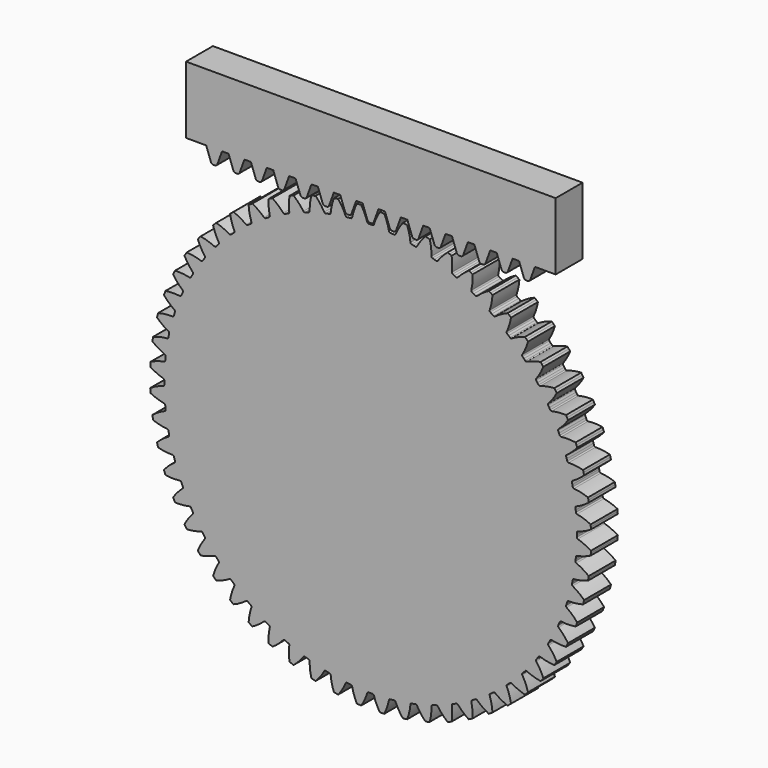
from build123d import *

# Parameters (mm, degrees)
F1_DEPTH = 5
F3_DEPTH = 5


with BuildPart() as f1:
    # F0 (on Front) → F1 (new body)
    with BuildSketch(Plane.XZ):
        with BuildLine():
            ThreePointArc((-0.297507, 30.688558), (-0.417595, 30.727177), (-0.490682, 30.829993))
            ThreePointArc((-0.490682, 30.829993), (-0.875034, 31.835854), (-1.391948, 32.78046))
            ThreePointArc((-1.391948, 32.78046), (-1.554564, 32.773151), (-1.717143, 32.765035))
            ThreePointArc((-1.717143, 32.765035), (-1.879679, 32.756113), (-2.042168, 32.746384))
            ThreePointArc((-2.042168, 32.746384), (-2.457513, 31.752919), (-2.734618, 30.712393))
            ThreePointArc((-2.734618, 30.712393), (-2.796557, 30.602501), (-2.911951, 30.551541))
            ThreePointArc((-2.911951, 30.551541), (-3.060001, 30.537068), (-3.207979, 30.521877))
            ThreePointArc((-3.207979, 30.521877), (-3.355881, 30.505969), (-3.503705, 30.489345))
            ThreePointArc((-3.503705, 30.489345), (-3.627172, 30.5152), (-3.710606, 30.609813))
            ThreePointArc((-3.710606, 30.609813), (-4.197993, 31.569988), (-4.810814, 32.455387))
            ThreePointArc((-4.810814, 32.455387), (-4.971776, 32.43112), (-5.132615, 32.406054))
            ThreePointArc((-5.132615, 32.406054), (-5.293328, 32.380191), (-5.45391, 32.353531))
            ThreePointArc((-5.45391, 32.353531), (-5.763134, 31.322094), (-5.929957, 30.258302))
            ThreePointArc((-5.929957, 30.258302), (-5.98007, 30.142538), (-6.089504, 30.079795))
            ThreePointArc((-6.089504, 30.079795), (-6.23523, 30.049925), (-6.38081, 30.01935))
            ThreePointArc((-6.38081, 30.01935), (-6.526239, 29.988069), (-6.671516, 29.956084))
            ThreePointArc((-6.671516, 29.956084), (-6.797009, 29.968892), (-6.889875, 30.054265))
            ThreePointArc((-6.889875, 30.054265), (-7.474958, 30.958234), (-8.176971, 31.774726))
            ThreePointArc((-8.176971, 31.774726), (-8.334515, 31.733767), (-8.491853, 31.692026))
            ThreePointArc((-8.491853, 31.692026), (-8.648982, 31.649506), (-8.805898, 31.606206))
            ThreePointArc((-8.805898, 31.606206), (-9.005613, 30.548096), (-9.060326, 29.472695))
            ThreePointArc((-9.060326, 29.472695), (-9.098063, 29.352326), (-9.20034, 29.278488))
            ThreePointArc((-9.20034, 29.278488), (-9.342146, 29.23355), (-9.483732, 29.187924))
            ThreePointArc((-9.483732, 29.187924), (-9.625095, 29.141614), (-9.766232, 29.094618))
            ThreePointArc((-9.766232, 29.094618), (-9.892377, 29.094238), (-9.993658, 29.169437))
            ThreePointArc((-9.993658, 29.169437), (-10.670026, 30.007296), (-11.45354, 30.745935))
            ThreePointArc((-11.45354, 30.745935), (-11.605939, 30.688732), (-11.758052, 30.630774))
            ThreePointArc((-11.758052, 30.630774), (-11.909876, 30.572062), (-12.061407, 30.512597))
            ThreePointArc((-12.061407, 30.512597), (-12.149425, 29.439408), (-12.091428, 28.364178))
            ThreePointArc((-12.091428, 28.364178), (-12.116377, 28.240525), (-12.210375, 28.1564))
            ThreePointArc((-12.210375, 28.1564), (-12.346706, 28.096885), (-12.482748, 28.03671))
            ThreePointArc((-12.482748, 28.03671), (-12.618496, 27.975877), (-12.753947, 27.914386))
            ThreePointArc((-12.753947, 27.914386), (-12.879361, 27.900822), (-12.987948, 27.965022))
            ThreePointArc((-12.987948, 27.965022), (-13.748191, 28.727591), (-14.604622, 29.380284))
            ThreePointArc((-14.604622, 29.380284), (-14.750207, 29.307465), (-14.895428, 29.233924))
            ThreePointArc((-14.895428, 29.233924), (-15.040283, 29.159664), (-15.184768, 29.084685))
            ThreePointArc((-15.184768, 29.084685), (-15.160126, 28.008175), (-14.990054, 26.944898))
            ThreePointArc((-14.990054, 26.944898), (-15.001941, 26.819314), (-15.08663, 26.725824))
            ThreePointArc((-15.08663, 26.725824), (-15.215994, 26.652385), (-15.345, 26.57832))
            ThreePointArc((-15.345, 26.57832), (-15.473646, 26.50363), (-15.601928, 26.428317))
            ThreePointArc((-15.601928, 26.428317), (-15.725237, 26.401718), (-15.839939, 26.454216))
            ThreePointArc((-15.839939, 26.454216), (-16.675728, 27.133141), (-17.595692, 27.692737))
            ThreePointArc((-17.595692, 27.692737), (-17.732868, 27.605099), (-17.869607, 27.516781))
            ThreePointArc((-17.869607, 27.516781), (-18.005906, 27.427786), (-18.141762, 27.338116))
            ThreePointArc((-18.141762, 27.338116), (-18.004728, 26.270078), (-17.724445, 25.230404))
            ThreePointArc((-17.724445, 25.230404), (-17.72314, 25.104265), (-17.797594, 25.002435))
            ThreePointArc((-17.797594, 25.002435), (-17.918572, 24.915876), (-18.039129, 24.828732))
            ThreePointArc((-18.039129, 24.828732), (-18.159263, 24.741004), (-18.27897, 24.652695))
            ThreePointArc((-18.27897, 24.652695), (-18.398823, 24.613352), (-18.518385, 24.653573))
            ThreePointArc((-18.518385, 24.653573), (-19.420562, 25.241415), (-20.393981, 25.701783))
            ThreePointArc((-20.393981, 25.701783), (-20.521244, 25.600286), (-20.648002, 25.498159))
            ThreePointArc((-20.648002, 25.498159), (-20.774252, 25.395404), (-20.89999, 25.292024))
            ThreePointArc((-20.89999, 25.292024), (-20.652067, 24.244162), (-20.264644, 23.23948))
            ThreePointArc((-20.264644, 23.23948), (-20.250161, 23.114169), (-20.313563, 23.005114))
            ThreePointArc((-20.313563, 23.005114), (-20.42483, 22.906383), (-20.535618, 22.807115))
            ThreePointArc((-20.535618, 22.807115), (-20.645924, 22.70731), (-20.755744, 22.606972))
            ThreePointArc((-20.755744, 22.606972), (-20.870829, 22.555317), (-20.993939, 22.582819))
            ThreePointArc((-20.993939, 22.582819), (-21.952621, 23.073138), (-22.968828, 23.429235))
            ThreePointArc((-22.968828, 23.429235), (-23.084785, 23.314991), (-23.200173, 23.200173))
            ThreePointArc((-23.200173, 23.200173), (-23.314991, 23.084785), (-23.429235, 22.968828))
            ThreePointArc((-23.429235, 22.968828), (-23.073138, 21.952621), (-22.582819, 20.993939))
            ThreePointArc((-22.582819, 20.993939), (-22.555317, 20.870829), (-22.606972, 20.755744))
            ThreePointArc((-22.606972, 20.755744), (-22.70731, 20.645924), (-22.807115, 20.535618))
            ThreePointArc((-22.807115, 20.535618), (-22.906383, 20.42483), (-23.005114, 20.313563))
            ThreePointArc((-23.005114, 20.313563), (-23.114169, 20.250161), (-23.23948, 20.264644))
            ThreePointArc((-23.23948, 20.264644), (-24.244162, 20.652067), (-25.292024, 20.89999))
            ThreePointArc((-25.292024, 20.89999), (-25.395404, 20.774252), (-25.498159, 20.648002))
            ThreePointArc((-25.498159, 20.648002), (-25.600286, 20.521244), (-25.701783, 20.393981))
            ThreePointArc((-25.701783, 20.393981), (-25.241415, 19.420562), (-24.653573, 18.518385))
            ThreePointArc((-24.653573, 18.518385), (-24.613352, 18.398823), (-24.652695, 18.27897))
            ThreePointArc((-24.652695, 18.27897), (-24.741004, 18.159263), (-24.828732, 18.039129))
            ThreePointArc((-24.828732, 18.039129), (-24.915876, 17.918572), (-25.002435, 17.797594))
            ThreePointArc((-25.002435, 17.797594), (-25.104265, 17.72314), (-25.230404, 17.724445))
            ThreePointArc((-25.230404, 17.724445), (-26.270078, 18.004728), (-27.338116, 18.141762))
            ThreePointArc((-27.338116, 18.141762), (-27.427786, 18.005906), (-27.516781, 17.869607))
            ThreePointArc((-27.516781, 17.869607), (-27.605099, 17.732868), (-27.692737, 17.595692))
            ThreePointArc((-27.692737, 17.595692), (-27.133141, 16.675728), (-26.454216, 15.839939))
            ThreePointArc((-26.454216, 15.839939), (-26.401718, 15.725237), (-26.428317, 15.601928))
            ThreePointArc((-26.428317, 15.601928), (-26.50363, 15.473646), (-26.57832, 15.345))
            ThreePointArc((-26.57832, 15.345), (-26.652385, 15.215994), (-26.725824, 15.08663))
            ThreePointArc((-26.725824, 15.08663), (-26.819314, 15.001941), (-26.944898, 14.990054))
            ThreePointArc((-26.944898, 14.990054), (-28.008175, 15.160126), (-29.084685, 15.184768))
            ThreePointArc((-29.084685, 15.184768), (-29.159664, 15.040283), (-29.233924, 14.895428))
            ThreePointArc((-29.233924, 14.895428), (-29.307465, 14.750207), (-29.380284, 14.604622))
            ThreePointArc((-29.380284, 14.604622), (-28.727591, 13.748191), (-27.965022, 12.987948))
            ThreePointArc((-27.965022, 12.987948), (-27.900822, 12.879361), (-27.914386, 12.753947))
            ThreePointArc((-27.914386, 12.753947), (-27.975877, 12.618496), (-28.03671, 12.482748))
            ThreePointArc((-28.03671, 12.482748), (-28.096885, 12.346706), (-28.1564, 12.210375))
            ThreePointArc((-28.1564, 12.210375), (-28.240525, 12.116377), (-28.364178, 12.091428))
            ThreePointArc((-28.364178, 12.091428), (-29.439408, 12.149425), (-30.512597, 12.061407))
            ThreePointArc((-30.512597, 12.061407), (-30.572062, 11.909876), (-30.630774, 11.758052))
            ThreePointArc((-30.630774, 11.758052), (-30.688732, 11.605939), (-30.745935, 11.45354))
            ThreePointArc((-30.745935, 11.45354), (-30.007296, 10.670026), (-29.169437, 9.993658))
            ThreePointArc((-29.169437, 9.993658), (-29.094238, 9.892377), (-29.094618, 9.766232))
            ThreePointArc((-29.094618, 9.766232), (-29.141614, 9.625095), (-29.187924, 9.483732))
            ThreePointArc((-29.187924, 9.483732), (-29.23355, 9.342146), (-29.278488, 9.20034))
            ThreePointArc((-29.278488, 9.20034), (-29.352326, 9.098063), (-29.472695, 9.060326))
            ThreePointArc((-29.472695, 9.060326), (-30.548096, 9.005613), (-31.606206, 8.805898))
            ThreePointArc((-31.606206, 8.805898), (-31.649506, 8.648982), (-31.692026, 8.491853))
            ThreePointArc((-31.692026, 8.491853), (-31.733767, 8.334515), (-31.774726, 8.176971))
            ThreePointArc((-31.774726, 8.176971), (-30.958234, 7.474958), (-30.054265, 6.889875))
            ThreePointArc((-30.054265, 6.889875), (-29.968892, 6.797009), (-29.956084, 6.671516))
            ThreePointArc((-29.956084, 6.671516), (-29.988069, 6.526239), (-30.01935, 6.38081))
            ThreePointArc((-30.01935, 6.38081), (-30.049925, 6.23523), (-30.079795, 6.089504))
            ThreePointArc((-30.079795, 6.089504), (-30.142538, 5.98007), (-30.258302, 5.929957))
            ThreePointArc((-30.258302, 5.929957), (-31.322094, 5.763134), (-32.353531, 5.45391))
            ThreePointArc((-32.353531, 5.45391), (-32.380191, 5.293328), (-32.406054, 5.132615))
            ThreePointArc((-32.406054, 5.132615), (-32.43112, 4.971776), (-32.455387, 4.810814))
            ThreePointArc((-32.455387, 4.810814), (-31.569988, 4.197993), (-30.609813, 3.710606))
            ThreePointArc((-30.609813, 3.710606), (-30.5152, 3.627172), (-30.489345, 3.503705))
            ThreePointArc((-30.489345, 3.503705), (-30.505969, 3.355881), (-30.521877, 3.207979))
            ThreePointArc((-30.521877, 3.207979), (-30.537068, 3.060001), (-30.551541, 2.911951))
            ThreePointArc((-30.551541, 2.911951), (-30.602501, 2.796557), (-30.712393, 2.734618))
            ThreePointArc((-30.712393, 2.734618), (-31.752919, 2.457513), (-32.746384, 2.042168))
            ThreePointArc((-32.746384, 2.042168), (-32.756113, 1.879679), (-32.765035, 1.717143))
            ThreePointArc((-32.765035, 1.717143), (-32.773151, 1.554564), (-32.78046, 1.391948))
            ThreePointArc((-32.78046, 1.391948), (-31.835854, 0.875034), (-30.829993, 0.490682))
            ThreePointArc((-30.829993, 0.490682), (-30.727177, 0.417595), (-30.688558, 0.297507))
            ThreePointArc((-30.688558, 0.297507), (-30.689639, 0.148755), (-30.69, 0))
            ThreePointArc((-30.69, 0), (-30.689639, -0.148755), (-30.688558, -0.297507))
            ThreePointArc((-30.688558, -0.297507), (-30.727177, -0.417595), (-30.829993, -0.490682))
            ThreePointArc((-30.829993, -0.490682), (-31.835854, -0.875034), (-32.78046, -1.391948))
            ThreePointArc((-32.78046, -1.391948), (-32.773151, -1.554564), (-32.765035, -1.717143))
            ThreePointArc((-32.765035, -1.717143), (-32.756113, -1.879679), (-32.746384, -2.042168))
            ThreePointArc((-32.746384, -2.042168), (-31.752919, -2.457513), (-30.712393, -2.734618))
            ThreePointArc((-30.712393, -2.734618), (-30.602501, -2.796557), (-30.551541, -2.911951))
            ThreePointArc((-30.551541, -2.911951), (-30.537068, -3.060001), (-30.521877, -3.207979))
            ThreePointArc((-30.521877, -3.207979), (-30.505969, -3.355881), (-30.489345, -3.503705))
            ThreePointArc((-30.489345, -3.503705), (-30.5152, -3.627172), (-30.609813, -3.710606))
            ThreePointArc((-30.609813, -3.710606), (-31.569988, -4.197993), (-32.455387, -4.810814))
            ThreePointArc((-32.455387, -4.810814), (-32.43112, -4.971776), (-32.406054, -5.132615))
            ThreePointArc((-32.406054, -5.132615), (-32.380191, -5.293328), (-32.353531, -5.45391))
            ThreePointArc((-32.353531, -5.45391), (-31.322094, -5.763134), (-30.258302, -5.929957))
            ThreePointArc((-30.258302, -5.929957), (-30.142538, -5.98007), (-30.079795, -6.089504))
            ThreePointArc((-30.079795, -6.089504), (-30.049925, -6.23523), (-30.01935, -6.38081))
            ThreePointArc((-30.01935, -6.38081), (-29.988069, -6.526239), (-29.956084, -6.671516))
            ThreePointArc((-29.956084, -6.671516), (-29.968892, -6.797009), (-30.054265, -6.889875))
            ThreePointArc((-30.054265, -6.889875), (-30.958234, -7.474958), (-31.774726, -8.176971))
            ThreePointArc((-31.774726, -8.176971), (-31.733767, -8.334515), (-31.692026, -8.491853))
            ThreePointArc((-31.692026, -8.491853), (-31.649506, -8.648982), (-31.606206, -8.805898))
            ThreePointArc((-31.606206, -8.805898), (-30.548096, -9.005613), (-29.472695, -9.060326))
            ThreePointArc((-29.472695, -9.060326), (-29.352326, -9.098063), (-29.278488, -9.20034))
            ThreePointArc((-29.278488, -9.20034), (-29.23355, -9.342146), (-29.187924, -9.483732))
            ThreePointArc((-29.187924, -9.483732), (-29.141614, -9.625095), (-29.094618, -9.766232))
            ThreePointArc((-29.094618, -9.766232), (-29.094238, -9.892377), (-29.169437, -9.993658))
            ThreePointArc((-29.169437, -9.993658), (-30.007296, -10.670026), (-30.745935, -11.45354))
            ThreePointArc((-30.745935, -11.45354), (-30.688732, -11.605939), (-30.630774, -11.758052))
            ThreePointArc((-30.630774, -11.758052), (-30.572062, -11.909876), (-30.512597, -12.061407))
            ThreePointArc((-30.512597, -12.061407), (-29.439408, -12.149425), (-28.364178, -12.091428))
            ThreePointArc((-28.364178, -12.091428), (-28.240525, -12.116377), (-28.1564, -12.210375))
            ThreePointArc((-28.1564, -12.210375), (-28.096885, -12.346706), (-28.03671, -12.482748))
            ThreePointArc((-28.03671, -12.482748), (-27.975877, -12.618496), (-27.914386, -12.753947))
            ThreePointArc((-27.914386, -12.753947), (-27.900822, -12.879361), (-27.965022, -12.987948))
            ThreePointArc((-27.965022, -12.987948), (-28.727591, -13.748191), (-29.380284, -14.604622))
            ThreePointArc((-29.380284, -14.604622), (-29.307465, -14.750207), (-29.233924, -14.895428))
            ThreePointArc((-29.233924, -14.895428), (-29.159664, -15.040283), (-29.084685, -15.184768))
            ThreePointArc((-29.084685, -15.184768), (-28.008175, -15.160126), (-26.944898, -14.990054))
            ThreePointArc((-26.944898, -14.990054), (-26.819314, -15.001941), (-26.725824, -15.08663))
            ThreePointArc((-26.725824, -15.08663), (-26.652385, -15.215994), (-26.57832, -15.345))
            ThreePointArc((-26.57832, -15.345), (-26.50363, -15.473646), (-26.428317, -15.601928))
            ThreePointArc((-26.428317, -15.601928), (-26.401718, -15.725237), (-26.454216, -15.839939))
            ThreePointArc((-26.454216, -15.839939), (-27.133141, -16.675728), (-27.692737, -17.595692))
            ThreePointArc((-27.692737, -17.595692), (-27.605099, -17.732868), (-27.516781, -17.869607))
            ThreePointArc((-27.516781, -17.869607), (-27.427786, -18.005906), (-27.338116, -18.141762))
            ThreePointArc((-27.338116, -18.141762), (-26.270078, -18.004728), (-25.230404, -17.724445))
            ThreePointArc((-25.230404, -17.724445), (-25.104265, -17.72314), (-25.002435, -17.797594))
            ThreePointArc((-25.002435, -17.797594), (-24.915876, -17.918572), (-24.828732, -18.039129))
            ThreePointArc((-24.828732, -18.039129), (-24.741004, -18.159263), (-24.652695, -18.27897))
            ThreePointArc((-24.652695, -18.27897), (-24.613352, -18.398823), (-24.653573, -18.518385))
            ThreePointArc((-24.653573, -18.518385), (-25.241415, -19.420562), (-25.701783, -20.393981))
            ThreePointArc((-25.701783, -20.393981), (-25.600286, -20.521244), (-25.498159, -20.648002))
            ThreePointArc((-25.498159, -20.648002), (-25.395404, -20.774252), (-25.292024, -20.89999))
            ThreePointArc((-25.292024, -20.89999), (-24.244162, -20.652067), (-23.23948, -20.264644))
            ThreePointArc((-23.23948, -20.264644), (-23.114169, -20.250161), (-23.005114, -20.313563))
            ThreePointArc((-23.005114, -20.313563), (-22.906383, -20.42483), (-22.807115, -20.535618))
            ThreePointArc((-22.807115, -20.535618), (-22.70731, -20.645924), (-22.606972, -20.755744))
            ThreePointArc((-22.606972, -20.755744), (-22.555317, -20.870829), (-22.582819, -20.993939))
            ThreePointArc((-22.582819, -20.993939), (-23.073138, -21.952621), (-23.429235, -22.968828))
            ThreePointArc((-23.429235, -22.968828), (-23.314991, -23.084785), (-23.200173, -23.200173))
            ThreePointArc((-23.200173, -23.200173), (-23.084785, -23.314991), (-22.968828, -23.429235))
            ThreePointArc((-22.968828, -23.429235), (-21.952621, -23.073138), (-20.993939, -22.582819))
            ThreePointArc((-20.993939, -22.582819), (-20.870829, -22.555317), (-20.755744, -22.606972))
            ThreePointArc((-20.755744, -22.606972), (-20.645924, -22.70731), (-20.535618, -22.807115))
            ThreePointArc((-20.535618, -22.807115), (-20.42483, -22.906383), (-20.313563, -23.005114))
            ThreePointArc((-20.313563, -23.005114), (-20.250161, -23.114169), (-20.264644, -23.23948))
            ThreePointArc((-20.264644, -23.23948), (-20.652067, -24.244162), (-20.89999, -25.292024))
            ThreePointArc((-20.89999, -25.292024), (-20.774252, -25.395404), (-20.648002, -25.498159))
            ThreePointArc((-20.648002, -25.498159), (-20.521244, -25.600286), (-20.393981, -25.701783))
            ThreePointArc((-20.393981, -25.701783), (-19.420562, -25.241415), (-18.518385, -24.653573))
            ThreePointArc((-18.518385, -24.653573), (-18.398823, -24.613352), (-18.27897, -24.652695))
            ThreePointArc((-18.27897, -24.652695), (-18.159263, -24.741004), (-18.039129, -24.828732))
            ThreePointArc((-18.039129, -24.828732), (-17.918572, -24.915876), (-17.797594, -25.002435))
            ThreePointArc((-17.797594, -25.002435), (-17.72314, -25.104265), (-17.724445, -25.230404))
            ThreePointArc((-17.724445, -25.230404), (-18.004728, -26.270078), (-18.141762, -27.338116))
            ThreePointArc((-18.141762, -27.338116), (-18.005906, -27.427786), (-17.869607, -27.516781))
            ThreePointArc((-17.869607, -27.516781), (-17.732868, -27.605099), (-17.595692, -27.692737))
            ThreePointArc((-17.595692, -27.692737), (-16.675728, -27.133141), (-15.839939, -26.454216))
            ThreePointArc((-15.839939, -26.454216), (-15.725237, -26.401718), (-15.601928, -26.428317))
            ThreePointArc((-15.601928, -26.428317), (-15.473646, -26.50363), (-15.345, -26.57832))
            ThreePointArc((-15.345, -26.57832), (-15.215994, -26.652385), (-15.08663, -26.725824))
            ThreePointArc((-15.08663, -26.725824), (-15.001941, -26.819314), (-14.990054, -26.944898))
            ThreePointArc((-14.990054, -26.944898), (-15.160126, -28.008175), (-15.184768, -29.084685))
            ThreePointArc((-15.184768, -29.084685), (-15.040283, -29.159664), (-14.895428, -29.233924))
            ThreePointArc((-14.895428, -29.233924), (-14.750207, -29.307465), (-14.604622, -29.380284))
            ThreePointArc((-14.604622, -29.380284), (-13.748191, -28.727591), (-12.987948, -27.965022))
            ThreePointArc((-12.987948, -27.965022), (-12.879361, -27.900822), (-12.753947, -27.914386))
            ThreePointArc((-12.753947, -27.914386), (-12.618496, -27.975877), (-12.482748, -28.03671))
            ThreePointArc((-12.482748, -28.03671), (-12.346706, -28.096885), (-12.210375, -28.1564))
            ThreePointArc((-12.210375, -28.1564), (-12.116377, -28.240525), (-12.091428, -28.364178))
            ThreePointArc((-12.091428, -28.364178), (-12.149425, -29.439408), (-12.061407, -30.512597))
            ThreePointArc((-12.061407, -30.512597), (-11.909876, -30.572062), (-11.758052, -30.630774))
            ThreePointArc((-11.758052, -30.630774), (-11.605939, -30.688732), (-11.45354, -30.745935))
            ThreePointArc((-11.45354, -30.745935), (-10.670026, -30.007296), (-9.993658, -29.169437))
            ThreePointArc((-9.993658, -29.169437), (-9.892377, -29.094238), (-9.766232, -29.094618))
            ThreePointArc((-9.766232, -29.094618), (-9.625095, -29.141614), (-9.483732, -29.187924))
            ThreePointArc((-9.483732, -29.187924), (-9.342146, -29.23355), (-9.20034, -29.278488))
            ThreePointArc((-9.20034, -29.278488), (-9.098063, -29.352326), (-9.060326, -29.472695))
            ThreePointArc((-9.060326, -29.472695), (-9.005613, -30.548096), (-8.805898, -31.606206))
            ThreePointArc((-8.805898, -31.606206), (-8.648982, -31.649506), (-8.491853, -31.692026))
            ThreePointArc((-8.491853, -31.692026), (-8.334515, -31.733767), (-8.176971, -31.774726))
            ThreePointArc((-8.176971, -31.774726), (-7.474958, -30.958234), (-6.889875, -30.054265))
            ThreePointArc((-6.889875, -30.054265), (-6.797009, -29.968892), (-6.671516, -29.956084))
            ThreePointArc((-6.671516, -29.956084), (-6.526239, -29.988069), (-6.38081, -30.01935))
            ThreePointArc((-6.38081, -30.01935), (-6.23523, -30.049925), (-6.089504, -30.079795))
            ThreePointArc((-6.089504, -30.079795), (-5.98007, -30.142538), (-5.929957, -30.258302))
            ThreePointArc((-5.929957, -30.258302), (-5.763134, -31.322094), (-5.45391, -32.353531))
            ThreePointArc((-5.45391, -32.353531), (-5.293328, -32.380191), (-5.132615, -32.406054))
            ThreePointArc((-5.132615, -32.406054), (-4.971776, -32.43112), (-4.810814, -32.455387))
            ThreePointArc((-4.810814, -32.455387), (-4.197993, -31.569988), (-3.710606, -30.609813))
            ThreePointArc((-3.710606, -30.609813), (-3.627172, -30.5152), (-3.503705, -30.489345))
            ThreePointArc((-3.503705, -30.489345), (-3.355881, -30.505969), (-3.207979, -30.521877))
            ThreePointArc((-3.207979, -30.521877), (-3.060001, -30.537068), (-2.911951, -30.551541))
            ThreePointArc((-2.911951, -30.551541), (-2.796557, -30.602501), (-2.734618, -30.712393))
            ThreePointArc((-2.734618, -30.712393), (-2.457513, -31.752919), (-2.042168, -32.746384))
            ThreePointArc((-2.042168, -32.746384), (-1.879679, -32.756113), (-1.717143, -32.765035))
            ThreePointArc((-1.717143, -32.765035), (-1.554564, -32.773151), (-1.391948, -32.78046))
            ThreePointArc((-1.391948, -32.78046), (-0.875034, -31.835854), (-0.490682, -30.829993))
            ThreePointArc((-0.490682, -30.829993), (-0.417595, -30.727177), (-0.297507, -30.688558))
            ThreePointArc((-0.297507, -30.688558), (-0.148755, -30.689639), (0, -30.69))
            ThreePointArc((0, -30.69), (0.148755, -30.689639), (0.297507, -30.688558))
            ThreePointArc((0.297507, -30.688558), (0.417595, -30.727177), (0.490682, -30.829993))
            ThreePointArc((0.490682, -30.829993), (0.875034, -31.835854), (1.391948, -32.78046))
            ThreePointArc((1.391948, -32.78046), (1.554564, -32.773151), (1.717143, -32.765035))
            ThreePointArc((1.717143, -32.765035), (1.879679, -32.756113), (2.042168, -32.746384))
            ThreePointArc((2.042168, -32.746384), (2.457513, -31.752919), (2.734618, -30.712393))
            ThreePointArc((2.734618, -30.712393), (2.796557, -30.602501), (2.911951, -30.551541))
            ThreePointArc((2.911951, -30.551541), (3.060001, -30.537068), (3.207979, -30.521877))
            ThreePointArc((3.207979, -30.521877), (3.355881, -30.505969), (3.503705, -30.489345))
            ThreePointArc((3.503705, -30.489345), (3.627172, -30.5152), (3.710606, -30.609813))
            ThreePointArc((3.710606, -30.609813), (4.197993, -31.569988), (4.810814, -32.455387))
            ThreePointArc((4.810814, -32.455387), (4.971776, -32.43112), (5.132615, -32.406054))
            ThreePointArc((5.132615, -32.406054), (5.293328, -32.380191), (5.45391, -32.353531))
            ThreePointArc((5.45391, -32.353531), (5.763134, -31.322094), (5.929957, -30.258302))
            ThreePointArc((5.929957, -30.258302), (5.98007, -30.142538), (6.089504, -30.079795))
            ThreePointArc((6.089504, -30.079795), (6.23523, -30.049925), (6.38081, -30.01935))
            ThreePointArc((6.38081, -30.01935), (6.526239, -29.988069), (6.671516, -29.956084))
            ThreePointArc((6.671516, -29.956084), (6.797009, -29.968892), (6.889875, -30.054265))
            ThreePointArc((6.889875, -30.054265), (7.474958, -30.958234), (8.176971, -31.774726))
            ThreePointArc((8.176971, -31.774726), (8.334515, -31.733767), (8.491853, -31.692026))
            ThreePointArc((8.491853, -31.692026), (8.648982, -31.649506), (8.805898, -31.606206))
            ThreePointArc((8.805898, -31.606206), (9.005613, -30.548096), (9.060326, -29.472695))
            ThreePointArc((9.060326, -29.472695), (9.098063, -29.352326), (9.20034, -29.278488))
            ThreePointArc((9.20034, -29.278488), (9.342146, -29.23355), (9.483732, -29.187924))
            ThreePointArc((9.483732, -29.187924), (9.625095, -29.141614), (9.766232, -29.094618))
            ThreePointArc((9.766232, -29.094618), (9.892377, -29.094238), (9.993658, -29.169437))
            ThreePointArc((9.993658, -29.169437), (10.670026, -30.007296), (11.45354, -30.745935))
            ThreePointArc((11.45354, -30.745935), (11.605939, -30.688732), (11.758052, -30.630774))
            ThreePointArc((11.758052, -30.630774), (11.909876, -30.572062), (12.061407, -30.512597))
            ThreePointArc((12.061407, -30.512597), (12.149425, -29.439408), (12.091428, -28.364178))
            ThreePointArc((12.091428, -28.364178), (12.116377, -28.240525), (12.210375, -28.1564))
            ThreePointArc((12.210375, -28.1564), (12.346706, -28.096885), (12.482748, -28.03671))
            ThreePointArc((12.482748, -28.03671), (12.618496, -27.975877), (12.753947, -27.914386))
            ThreePointArc((12.753947, -27.914386), (12.879361, -27.900822), (12.987948, -27.965022))
            ThreePointArc((12.987948, -27.965022), (13.748191, -28.727591), (14.604622, -29.380284))
            ThreePointArc((14.604622, -29.380284), (14.750207, -29.307465), (14.895428, -29.233924))
            ThreePointArc((14.895428, -29.233924), (15.040283, -29.159664), (15.184768, -29.084685))
            ThreePointArc((15.184768, -29.084685), (15.160126, -28.008175), (14.990054, -26.944898))
            ThreePointArc((14.990054, -26.944898), (15.001941, -26.819314), (15.08663, -26.725824))
            ThreePointArc((15.08663, -26.725824), (15.215994, -26.652385), (15.345, -26.57832))
            ThreePointArc((15.345, -26.57832), (15.473646, -26.50363), (15.601928, -26.428317))
            ThreePointArc((15.601928, -26.428317), (15.725237, -26.401718), (15.839939, -26.454216))
            ThreePointArc((15.839939, -26.454216), (16.675728, -27.133141), (17.595692, -27.692737))
            ThreePointArc((17.595692, -27.692737), (17.732868, -27.605099), (17.869607, -27.516781))
            ThreePointArc((17.869607, -27.516781), (18.005906, -27.427786), (18.141762, -27.338116))
            ThreePointArc((18.141762, -27.338116), (18.004728, -26.270078), (17.724445, -25.230404))
            ThreePointArc((17.724445, -25.230404), (17.72314, -25.104265), (17.797594, -25.002435))
            ThreePointArc((17.797594, -25.002435), (17.918572, -24.915876), (18.039129, -24.828732))
            ThreePointArc((18.039129, -24.828732), (18.159263, -24.741004), (18.27897, -24.652695))
            ThreePointArc((18.27897, -24.652695), (18.398823, -24.613352), (18.518385, -24.653573))
            ThreePointArc((18.518385, -24.653573), (19.420562, -25.241415), (20.393981, -25.701783))
            ThreePointArc((20.393981, -25.701783), (20.521244, -25.600286), (20.648002, -25.498159))
            ThreePointArc((20.648002, -25.498159), (20.774252, -25.395404), (20.89999, -25.292024))
            ThreePointArc((20.89999, -25.292024), (20.652067, -24.244162), (20.264644, -23.23948))
            ThreePointArc((20.264644, -23.23948), (20.250161, -23.114169), (20.313563, -23.005114))
            ThreePointArc((20.313563, -23.005114), (20.42483, -22.906383), (20.535618, -22.807115))
            ThreePointArc((20.535618, -22.807115), (20.645924, -22.70731), (20.755744, -22.606972))
            ThreePointArc((20.755744, -22.606972), (20.870829, -22.555317), (20.993939, -22.582819))
            ThreePointArc((20.993939, -22.582819), (21.952621, -23.073138), (22.968828, -23.429235))
            ThreePointArc((22.968828, -23.429235), (23.084785, -23.314991), (23.200173, -23.200173))
            ThreePointArc((23.200173, -23.200173), (23.314991, -23.084785), (23.429235, -22.968828))
            ThreePointArc((23.429235, -22.968828), (23.073138, -21.952621), (22.582819, -20.993939))
            ThreePointArc((22.582819, -20.993939), (22.555317, -20.870829), (22.606972, -20.755744))
            ThreePointArc((22.606972, -20.755744), (22.70731, -20.645924), (22.807115, -20.535618))
            ThreePointArc((22.807115, -20.535618), (22.906383, -20.42483), (23.005114, -20.313563))
            ThreePointArc((23.005114, -20.313563), (23.114169, -20.250161), (23.23948, -20.264644))
            ThreePointArc((23.23948, -20.264644), (24.244162, -20.652067), (25.292024, -20.89999))
            ThreePointArc((25.292024, -20.89999), (25.395404, -20.774252), (25.498159, -20.648002))
            ThreePointArc((25.498159, -20.648002), (25.600286, -20.521244), (25.701783, -20.393981))
            ThreePointArc((25.701783, -20.393981), (25.241415, -19.420562), (24.653573, -18.518385))
            ThreePointArc((24.653573, -18.518385), (24.613352, -18.398823), (24.652695, -18.27897))
            ThreePointArc((24.652695, -18.27897), (24.741004, -18.159263), (24.828732, -18.039129))
            ThreePointArc((24.828732, -18.039129), (24.915876, -17.918572), (25.002435, -17.797594))
            ThreePointArc((25.002435, -17.797594), (25.104265, -17.72314), (25.230404, -17.724445))
            ThreePointArc((25.230404, -17.724445), (26.270078, -18.004728), (27.338116, -18.141762))
            ThreePointArc((27.338116, -18.141762), (27.427786, -18.005906), (27.516781, -17.869607))
            ThreePointArc((27.516781, -17.869607), (27.605099, -17.732868), (27.692737, -17.595692))
            ThreePointArc((27.692737, -17.595692), (27.133141, -16.675728), (26.454216, -15.839939))
            ThreePointArc((26.454216, -15.839939), (26.401718, -15.725237), (26.428317, -15.601928))
            ThreePointArc((26.428317, -15.601928), (26.50363, -15.473646), (26.57832, -15.345))
            ThreePointArc((26.57832, -15.345), (26.652385, -15.215994), (26.725824, -15.08663))
            ThreePointArc((26.725824, -15.08663), (26.819314, -15.001941), (26.944898, -14.990054))
            ThreePointArc((26.944898, -14.990054), (28.008175, -15.160126), (29.084685, -15.184768))
            ThreePointArc((29.084685, -15.184768), (29.159664, -15.040283), (29.233924, -14.895428))
            ThreePointArc((29.233924, -14.895428), (29.307465, -14.750207), (29.380284, -14.604622))
            ThreePointArc((29.380284, -14.604622), (28.727591, -13.748191), (27.965022, -12.987948))
            ThreePointArc((27.965022, -12.987948), (27.900822, -12.879361), (27.914386, -12.753947))
            ThreePointArc((27.914386, -12.753947), (27.975877, -12.618496), (28.03671, -12.482748))
            ThreePointArc((28.03671, -12.482748), (28.096885, -12.346706), (28.1564, -12.210375))
            ThreePointArc((28.1564, -12.210375), (28.240525, -12.116377), (28.364178, -12.091428))
            ThreePointArc((28.364178, -12.091428), (29.439408, -12.149425), (30.512597, -12.061407))
            ThreePointArc((30.512597, -12.061407), (30.572062, -11.909876), (30.630774, -11.758052))
            ThreePointArc((30.630774, -11.758052), (30.688732, -11.605939), (30.745935, -11.45354))
            ThreePointArc((30.745935, -11.45354), (30.007296, -10.670026), (29.169437, -9.993658))
            ThreePointArc((29.169437, -9.993658), (29.094238, -9.892377), (29.094618, -9.766232))
            ThreePointArc((29.094618, -9.766232), (29.141614, -9.625095), (29.187924, -9.483732))
            ThreePointArc((29.187924, -9.483732), (29.23355, -9.342146), (29.278488, -9.20034))
            ThreePointArc((29.278488, -9.20034), (29.352326, -9.098063), (29.472695, -9.060326))
            ThreePointArc((29.472695, -9.060326), (30.548096, -9.005613), (31.606206, -8.805898))
            ThreePointArc((31.606206, -8.805898), (31.649506, -8.648982), (31.692026, -8.491853))
            ThreePointArc((31.692026, -8.491853), (31.733767, -8.334515), (31.774726, -8.176971))
            ThreePointArc((31.774726, -8.176971), (30.958234, -7.474958), (30.054265, -6.889875))
            ThreePointArc((30.054265, -6.889875), (29.968892, -6.797009), (29.956084, -6.671516))
            ThreePointArc((29.956084, -6.671516), (29.988069, -6.526239), (30.01935, -6.38081))
            ThreePointArc((30.01935, -6.38081), (30.049925, -6.23523), (30.079795, -6.089504))
            ThreePointArc((30.079795, -6.089504), (30.142538, -5.98007), (30.258302, -5.929957))
            ThreePointArc((30.258302, -5.929957), (31.322094, -5.763134), (32.353531, -5.45391))
            ThreePointArc((32.353531, -5.45391), (32.380191, -5.293328), (32.406054, -5.132615))
            ThreePointArc((32.406054, -5.132615), (32.43112, -4.971776), (32.455387, -4.810814))
            ThreePointArc((32.455387, -4.810814), (31.569988, -4.197993), (30.609813, -3.710606))
            ThreePointArc((30.609813, -3.710606), (30.5152, -3.627172), (30.489345, -3.503705))
            ThreePointArc((30.489345, -3.503705), (30.505969, -3.355881), (30.521877, -3.207979))
            ThreePointArc((30.521877, -3.207979), (30.537068, -3.060001), (30.551541, -2.911951))
            ThreePointArc((30.551541, -2.911951), (30.602501, -2.796557), (30.712393, -2.734618))
            ThreePointArc((30.712393, -2.734618), (31.752919, -2.457513), (32.746384, -2.042168))
            ThreePointArc((32.746384, -2.042168), (32.756113, -1.879679), (32.765035, -1.717143))
            ThreePointArc((32.765035, -1.717143), (32.773151, -1.554564), (32.78046, -1.391948))
            ThreePointArc((32.78046, -1.391948), (31.835854, -0.875034), (30.829993, -0.490682))
            ThreePointArc((30.829993, -0.490682), (30.727177, -0.417595), (30.688558, -0.297507))
            ThreePointArc((30.688558, -0.297507), (30.689639, -0.148755), (30.69, 0))
            ThreePointArc((30.69, 0), (30.689639, 0.148755), (30.688558, 0.297507))
            ThreePointArc((30.688558, 0.297507), (30.727177, 0.417595), (30.829993, 0.490682))
            ThreePointArc((30.829993, 0.490682), (31.835854, 0.875034), (32.78046, 1.391948))
            ThreePointArc((32.78046, 1.391948), (32.773151, 1.554564), (32.765035, 1.717143))
            ThreePointArc((32.765035, 1.717143), (32.756113, 1.879679), (32.746384, 2.042168))
            ThreePointArc((32.746384, 2.042168), (31.752919, 2.457513), (30.712393, 2.734618))
            ThreePointArc((30.712393, 2.734618), (30.602501, 2.796557), (30.551541, 2.911951))
            ThreePointArc((30.551541, 2.911951), (30.537068, 3.060001), (30.521877, 3.207979))
            ThreePointArc((30.521877, 3.207979), (30.505969, 3.355881), (30.489345, 3.503705))
            ThreePointArc((30.489345, 3.503705), (30.5152, 3.627172), (30.609813, 3.710606))
            ThreePointArc((30.609813, 3.710606), (31.569988, 4.197993), (32.455387, 4.810814))
            ThreePointArc((32.455387, 4.810814), (32.43112, 4.971776), (32.406054, 5.132615))
            ThreePointArc((32.406054, 5.132615), (32.380191, 5.293328), (32.353531, 5.45391))
            ThreePointArc((32.353531, 5.45391), (31.322094, 5.763134), (30.258302, 5.929957))
            ThreePointArc((30.258302, 5.929957), (30.142538, 5.98007), (30.079795, 6.089504))
            ThreePointArc((30.079795, 6.089504), (30.049925, 6.23523), (30.01935, 6.38081))
            ThreePointArc((30.01935, 6.38081), (29.988069, 6.526239), (29.956084, 6.671516))
            ThreePointArc((29.956084, 6.671516), (29.968892, 6.797009), (30.054265, 6.889875))
            ThreePointArc((30.054265, 6.889875), (30.958234, 7.474958), (31.774726, 8.176971))
            ThreePointArc((31.774726, 8.176971), (31.733767, 8.334515), (31.692026, 8.491853))
            ThreePointArc((31.692026, 8.491853), (31.649506, 8.648982), (31.606206, 8.805898))
            ThreePointArc((31.606206, 8.805898), (30.548096, 9.005613), (29.472695, 9.060326))
            ThreePointArc((29.472695, 9.060326), (29.352326, 9.098063), (29.278488, 9.20034))
            ThreePointArc((29.278488, 9.20034), (29.23355, 9.342146), (29.187924, 9.483732))
            ThreePointArc((29.187924, 9.483732), (29.141614, 9.625095), (29.094618, 9.766232))
            ThreePointArc((29.094618, 9.766232), (29.094238, 9.892377), (29.169437, 9.993658))
            ThreePointArc((29.169437, 9.993658), (30.007296, 10.670026), (30.745935, 11.45354))
            ThreePointArc((30.745935, 11.45354), (30.688732, 11.605939), (30.630774, 11.758052))
            ThreePointArc((30.630774, 11.758052), (30.572062, 11.909876), (30.512597, 12.061407))
            ThreePointArc((30.512597, 12.061407), (29.439408, 12.149425), (28.364178, 12.091428))
            ThreePointArc((28.364178, 12.091428), (28.240525, 12.116377), (28.1564, 12.210375))
            ThreePointArc((28.1564, 12.210375), (28.096885, 12.346706), (28.03671, 12.482748))
            ThreePointArc((28.03671, 12.482748), (27.975877, 12.618496), (27.914386, 12.753947))
            ThreePointArc((27.914386, 12.753947), (27.900822, 12.879361), (27.965022, 12.987948))
            ThreePointArc((27.965022, 12.987948), (28.727591, 13.748191), (29.380284, 14.604622))
            ThreePointArc((29.380284, 14.604622), (29.307465, 14.750207), (29.233924, 14.895428))
            ThreePointArc((29.233924, 14.895428), (29.159664, 15.040283), (29.084685, 15.184768))
            ThreePointArc((29.084685, 15.184768), (28.008175, 15.160126), (26.944898, 14.990054))
            ThreePointArc((26.944898, 14.990054), (26.819314, 15.001941), (26.725824, 15.08663))
            ThreePointArc((26.725824, 15.08663), (26.652385, 15.215994), (26.57832, 15.345))
            ThreePointArc((26.57832, 15.345), (26.50363, 15.473646), (26.428317, 15.601928))
            ThreePointArc((26.428317, 15.601928), (26.401718, 15.725237), (26.454216, 15.839939))
            ThreePointArc((26.454216, 15.839939), (27.133141, 16.675728), (27.692737, 17.595692))
            ThreePointArc((27.692737, 17.595692), (27.605099, 17.732868), (27.516781, 17.869607))
            ThreePointArc((27.516781, 17.869607), (27.427786, 18.005906), (27.338116, 18.141762))
            ThreePointArc((27.338116, 18.141762), (26.270078, 18.004728), (25.230404, 17.724445))
            ThreePointArc((25.230404, 17.724445), (25.104265, 17.72314), (25.002435, 17.797594))
            ThreePointArc((25.002435, 17.797594), (24.915876, 17.918572), (24.828732, 18.039129))
            ThreePointArc((24.828732, 18.039129), (24.741004, 18.159263), (24.652695, 18.27897))
            ThreePointArc((24.652695, 18.27897), (24.613352, 18.398823), (24.653573, 18.518385))
            ThreePointArc((24.653573, 18.518385), (25.241415, 19.420562), (25.701783, 20.393981))
            ThreePointArc((25.701783, 20.393981), (25.600286, 20.521244), (25.498159, 20.648002))
            ThreePointArc((25.498159, 20.648002), (25.395404, 20.774252), (25.292024, 20.89999))
            ThreePointArc((25.292024, 20.89999), (24.244162, 20.652067), (23.23948, 20.264644))
            ThreePointArc((23.23948, 20.264644), (23.114169, 20.250161), (23.005114, 20.313563))
            ThreePointArc((23.005114, 20.313563), (22.906383, 20.42483), (22.807115, 20.535618))
            ThreePointArc((22.807115, 20.535618), (22.70731, 20.645924), (22.606972, 20.755744))
            ThreePointArc((22.606972, 20.755744), (22.555317, 20.870829), (22.582819, 20.993939))
            ThreePointArc((22.582819, 20.993939), (23.073138, 21.952621), (23.429235, 22.968828))
            ThreePointArc((23.429235, 22.968828), (23.314991, 23.084785), (23.200173, 23.200173))
            ThreePointArc((23.200173, 23.200173), (23.084785, 23.314991), (22.968828, 23.429235))
            ThreePointArc((22.968828, 23.429235), (21.952621, 23.073138), (20.993939, 22.582819))
            ThreePointArc((20.993939, 22.582819), (20.870829, 22.555317), (20.755744, 22.606972))
            ThreePointArc((20.755744, 22.606972), (20.645924, 22.70731), (20.535618, 22.807115))
            ThreePointArc((20.535618, 22.807115), (20.42483, 22.906383), (20.313563, 23.005114))
            ThreePointArc((20.313563, 23.005114), (20.250161, 23.114169), (20.264644, 23.23948))
            ThreePointArc((20.264644, 23.23948), (20.652067, 24.244162), (20.89999, 25.292024))
            ThreePointArc((20.89999, 25.292024), (20.774252, 25.395404), (20.648002, 25.498159))
            ThreePointArc((20.648002, 25.498159), (20.521244, 25.600286), (20.393981, 25.701783))
            ThreePointArc((20.393981, 25.701783), (19.420562, 25.241415), (18.518385, 24.653573))
            ThreePointArc((18.518385, 24.653573), (18.398823, 24.613352), (18.27897, 24.652695))
            ThreePointArc((18.27897, 24.652695), (18.159263, 24.741004), (18.039129, 24.828732))
            ThreePointArc((18.039129, 24.828732), (17.918572, 24.915876), (17.797594, 25.002435))
            ThreePointArc((17.797594, 25.002435), (17.72314, 25.104265), (17.724445, 25.230404))
            ThreePointArc((17.724445, 25.230404), (18.004728, 26.270078), (18.141762, 27.338116))
            ThreePointArc((18.141762, 27.338116), (18.005906, 27.427786), (17.869607, 27.516781))
            ThreePointArc((17.869607, 27.516781), (17.732868, 27.605099), (17.595692, 27.692737))
            ThreePointArc((17.595692, 27.692737), (16.675728, 27.133141), (15.839939, 26.454216))
            ThreePointArc((15.839939, 26.454216), (15.725237, 26.401718), (15.601928, 26.428317))
            ThreePointArc((15.601928, 26.428317), (15.473646, 26.50363), (15.345, 26.57832))
            ThreePointArc((15.345, 26.57832), (15.215994, 26.652385), (15.08663, 26.725824))
            ThreePointArc((15.08663, 26.725824), (15.001941, 26.819314), (14.990054, 26.944898))
            ThreePointArc((14.990054, 26.944898), (15.160126, 28.008175), (15.184768, 29.084685))
            ThreePointArc((15.184768, 29.084685), (15.040283, 29.159664), (14.895428, 29.233924))
            ThreePointArc((14.895428, 29.233924), (14.750207, 29.307465), (14.604622, 29.380284))
            ThreePointArc((14.604622, 29.380284), (13.748191, 28.727591), (12.987948, 27.965022))
            ThreePointArc((12.987948, 27.965022), (12.879361, 27.900822), (12.753947, 27.914386))
            ThreePointArc((12.753947, 27.914386), (12.618496, 27.975877), (12.482748, 28.03671))
            ThreePointArc((12.482748, 28.03671), (12.346706, 28.096885), (12.210375, 28.1564))
            ThreePointArc((12.210375, 28.1564), (12.116377, 28.240525), (12.091428, 28.364178))
            ThreePointArc((12.091428, 28.364178), (12.149425, 29.439408), (12.061407, 30.512597))
            ThreePointArc((12.061407, 30.512597), (11.909876, 30.572062), (11.758052, 30.630774))
            ThreePointArc((11.758052, 30.630774), (11.605939, 30.688732), (11.45354, 30.745935))
            ThreePointArc((11.45354, 30.745935), (10.670026, 30.007296), (9.993658, 29.169437))
            ThreePointArc((9.993658, 29.169437), (9.892377, 29.094238), (9.766232, 29.094618))
            ThreePointArc((9.766232, 29.094618), (9.625095, 29.141614), (9.483732, 29.187924))
            ThreePointArc((9.483732, 29.187924), (9.342146, 29.23355), (9.20034, 29.278488))
            ThreePointArc((9.20034, 29.278488), (9.098063, 29.352326), (9.060326, 29.472695))
            ThreePointArc((9.060326, 29.472695), (9.005613, 30.548096), (8.805898, 31.606206))
            ThreePointArc((8.805898, 31.606206), (8.648982, 31.649506), (8.491853, 31.692026))
            ThreePointArc((8.491853, 31.692026), (8.334515, 31.733767), (8.176971, 31.774726))
            ThreePointArc((8.176971, 31.774726), (7.474958, 30.958234), (6.889875, 30.054265))
            ThreePointArc((6.889875, 30.054265), (6.797009, 29.968892), (6.671516, 29.956084))
            ThreePointArc((6.671516, 29.956084), (6.526239, 29.988069), (6.38081, 30.01935))
            ThreePointArc((6.38081, 30.01935), (6.23523, 30.049925), (6.089504, 30.079795))
            ThreePointArc((6.089504, 30.079795), (5.98007, 30.142538), (5.929957, 30.258302))
            ThreePointArc((5.929957, 30.258302), (5.763134, 31.322094), (5.45391, 32.353531))
            ThreePointArc((5.45391, 32.353531), (5.293328, 32.380191), (5.132615, 32.406054))
            ThreePointArc((5.132615, 32.406054), (4.971776, 32.43112), (4.810814, 32.455387))
            ThreePointArc((4.810814, 32.455387), (4.197993, 31.569988), (3.710606, 30.609813))
            ThreePointArc((3.710606, 30.609813), (3.627172, 30.5152), (3.503705, 30.489345))
            ThreePointArc((3.503705, 30.489345), (3.355881, 30.505969), (3.207979, 30.521877))
            ThreePointArc((3.207979, 30.521877), (3.060001, 30.537068), (2.911951, 30.551541))
            ThreePointArc((2.911951, 30.551541), (2.796557, 30.602501), (2.734618, 30.712393))
            ThreePointArc((2.734618, 30.712393), (2.457513, 31.752919), (2.042168, 32.746384))
            ThreePointArc((2.042168, 32.746384), (1.879679, 32.756113), (1.717143, 32.765035))
            ThreePointArc((1.717143, 32.765035), (1.554564, 32.773151), (1.391948, 32.78046))
            ThreePointArc((1.391948, 32.78046), (0.875034, 31.835854), (0.490682, 30.829993))
            ThreePointArc((0.490682, 30.829993), (0.417595, 30.727177), (0.297507, 30.688558))
            ThreePointArc((0.297507, 30.688558), (0.148755, 30.689639), (0, 30.69))
            ThreePointArc((0, 30.69), (-0.148755, 30.689639), (-0.297507, 30.688558))
        make_face()
    extrude(amount=F1_DEPTH)


with BuildPart() as f3:
    # F2 (on Front) → F3 (new body)
    with BuildSketch(Plane.XZ):
        with BuildLine():
            Line((0.475877, 31.151741), (1.181346, 33.09))
            Line((1.181346, 33.09), (2.143454, 33.09))
            Line((2.143454, 33.09), (2.848923, 31.151741))
            ThreePointArc((2.848923, 31.151741), (2.995369, 30.960888), (3.2248, 30.888549))
            Line((3.2248, 30.888549), (3.3248, 30.888549))
            Line((3.3248, 30.888549), (3.4248, 30.888549))
            ThreePointArc((3.4248, 30.888549), (3.654231, 30.960888), (3.800677, 31.151741))
            Line((3.800677, 31.151741), (4.506146, 33.09))
            Line((4.506146, 33.09), (5.468254, 33.09))
            Line((5.468254, 33.09), (6.173723, 31.151741))
            ThreePointArc((6.173723, 31.151741), (6.320169, 30.960888), (6.5496, 30.888549))
            Line((6.5496, 30.888549), (6.6496, 30.888549))
            Line((6.6496, 30.888549), (6.7496, 30.888549))
            ThreePointArc((6.7496, 30.888549), (6.979031, 30.960888), (7.125477, 31.151741))
            Line((7.125477, 31.151741), (7.830946, 33.09))
            Line((7.830946, 33.09), (8.793054, 33.09))
            Line((8.793054, 33.09), (9.498523, 31.151741))
            ThreePointArc((9.498523, 31.151741), (9.644969, 30.960888), (9.8744, 30.888549))
            Line((9.8744, 30.888549), (9.9744, 30.888549))
            Line((9.9744, 30.888549), (10.0744, 30.888549))
            ThreePointArc((10.0744, 30.888549), (10.303831, 30.960888), (10.450277, 31.151741))
            Line((10.450277, 31.151741), (11.155746, 33.09))
            Line((11.155746, 33.09), (12.117854, 33.09))
            Line((12.117854, 33.09), (12.823323, 31.151741))
            ThreePointArc((12.823323, 31.151741), (12.969769, 30.960888), (13.1992, 30.888549))
            Line((13.1992, 30.888549), (13.2992, 30.888549))
            Line((13.2992, 30.888549), (13.3992, 30.888549))
            ThreePointArc((13.3992, 30.888549), (13.628631, 30.960888), (13.775077, 31.151741))
            Line((13.775077, 31.151741), (14.480546, 33.09))
            Line((14.480546, 33.09), (15.442654, 33.09))
            Line((15.442654, 33.09), (16.148123, 31.151741))
            ThreePointArc((16.148123, 31.151741), (16.294569, 30.960888), (16.524, 30.888549))
            Line((16.524, 30.888549), (16.624, 30.888549))
            Line((16.624, 30.888549), (16.724, 30.888549))
            ThreePointArc((16.724, 30.888549), (16.953431, 30.960888), (17.099877, 31.151741))
            Line((17.099877, 31.151741), (17.805346, 33.09))
            Line((17.805346, 33.09), (18.767454, 33.09))
            Line((18.767454, 33.09), (19.472923, 31.151741))
            ThreePointArc((19.472923, 31.151741), (19.619369, 30.960888), (19.8488, 30.888549))
            Line((19.8488, 30.888549), (19.9488, 30.888549))
            Line((19.9488, 30.888549), (20.0488, 30.888549))
            ThreePointArc((20.0488, 30.888549), (20.278231, 30.960888), (20.424677, 31.151741))
            Line((20.424677, 31.151741), (21.130146, 33.09))
            Line((21.130146, 33.09), (22.092254, 33.09))
            Line((22.092254, 33.09), (22.797723, 31.151741))
            ThreePointArc((22.797723, 31.151741), (22.944169, 30.960888), (23.1736, 30.888549))
            Line((23.1736, 30.888549), (23.2736, 30.888549))
            Line((23.2736, 30.888549), (23.3736, 30.888549))
            ThreePointArc((23.3736, 30.888549), (23.603031, 30.960888), (23.749477, 31.151741))
            Line((23.749477, 31.151741), (24.454946, 33.09))
            Line((24.454946, 33.09), (27.543654, 33.09))
            Line((27.543654, 33.09), (27.543654, 43.09))
            Line((27.543654, 43.09), (-27.456346, 43.09))
            Line((-27.456346, 43.09), (-27.456346, 33.09))
            Line((-27.456346, 33.09), (-24.456346, 33.09))
            Line((-24.456346, 33.09), (-23.750877, 31.151741))
            ThreePointArc((-23.750877, 31.151741), (-23.604431, 30.960888), (-23.375, 30.888549))
            Line((-23.375, 30.888549), (-23.275, 30.888549))
            Line((-23.275, 30.888549), (-23.175, 30.888549))
            ThreePointArc((-23.175, 30.888549), (-22.945569, 30.960888), (-22.799123, 31.151741))
            Line((-22.799123, 31.151741), (-22.093654, 33.09))
            Line((-22.093654, 33.09), (-21.131346, 33.09))
            Line((-21.131346, 33.09), (-20.425877, 31.151741))
            ThreePointArc((-20.425877, 31.151741), (-20.279431, 30.960888), (-20.05, 30.888549))
            Line((-20.05, 30.888549), (-19.95, 30.888549))
            Line((-19.95, 30.888549), (-19.85, 30.888549))
            ThreePointArc((-19.85, 30.888549), (-19.620569, 30.960888), (-19.474123, 31.151741))
            Line((-19.474123, 31.151741), (-18.768654, 33.09))
            Line((-18.768654, 33.09), (-17.806346, 33.09))
            Line((-17.806346, 33.09), (-17.100877, 31.151741))
            ThreePointArc((-17.100877, 31.151741), (-16.954431, 30.960888), (-16.725, 30.888549))
            Line((-16.725, 30.888549), (-16.625, 30.888549))
            Line((-16.625, 30.888549), (-16.525, 30.888549))
            ThreePointArc((-16.525, 30.888549), (-16.295569, 30.960888), (-16.149123, 31.151741))
            Line((-16.149123, 31.151741), (-15.443654, 33.09))
            Line((-15.443654, 33.09), (-14.481346, 33.09))
            Line((-14.481346, 33.09), (-13.775877, 31.151741))
            ThreePointArc((-13.775877, 31.151741), (-13.629431, 30.960888), (-13.4, 30.888549))
            Line((-13.4, 30.888549), (-13.3, 30.888549))
            Line((-13.3, 30.888549), (-13.2, 30.888549))
            ThreePointArc((-13.2, 30.888549), (-12.970569, 30.960888), (-12.824123, 31.151741))
            Line((-12.824123, 31.151741), (-12.118654, 33.09))
            Line((-12.118654, 33.09), (-11.156346, 33.09))
            Line((-11.156346, 33.09), (-10.450877, 31.151741))
            ThreePointArc((-10.450877, 31.151741), (-10.304431, 30.960888), (-10.075, 30.888549))
            Line((-10.075, 30.888549), (-9.975, 30.888549))
            Line((-9.975, 30.888549), (-9.875, 30.888549))
            ThreePointArc((-9.875, 30.888549), (-9.645569, 30.960888), (-9.499123, 31.151741))
            Line((-9.499123, 31.151741), (-8.793654, 33.09))
            Line((-8.793654, 33.09), (-7.831346, 33.09))
            Line((-7.831346, 33.09), (-7.125877, 31.151741))
            ThreePointArc((-7.125877, 31.151741), (-6.979431, 30.960888), (-6.75, 30.888549))
            Line((-6.75, 30.888549), (-6.65, 30.888549))
            Line((-6.65, 30.888549), (-6.55, 30.888549))
            ThreePointArc((-6.55, 30.888549), (-6.320569, 30.960888), (-6.174123, 31.151741))
            Line((-6.174123, 31.151741), (-5.468654, 33.09))
            Line((-5.468654, 33.09), (-4.506346, 33.09))
            Line((-4.506346, 33.09), (-3.800877, 31.151741))
            ThreePointArc((-3.800877, 31.151741), (-3.654431, 30.960888), (-3.425, 30.888549))
            Line((-3.425, 30.888549), (-3.325, 30.888549))
            Line((-3.325, 30.888549), (-3.225, 30.888549))
            ThreePointArc((-3.225, 30.888549), (-2.995569, 30.960888), (-2.849123, 31.151741))
            Line((-2.849123, 31.151741), (-2.143654, 33.09))
            Line((-2.143654, 33.09), (-1.181346, 33.09))
            Line((-1.181346, 33.09), (-0.475877, 31.151741))
            ThreePointArc((-0.475877, 31.151741), (-0.329431, 30.960888), (-0.1, 30.888549))
            Line((-0.1, 30.888549), (0, 30.888549))
            Line((0, 30.888549), (0.1, 30.888549))
            ThreePointArc((0.1, 30.888549), (0.329431, 30.960888), (0.475877, 31.151741))
        make_face()
    extrude(amount=F3_DEPTH)


solid = Compound([f1.part, f3.part])
